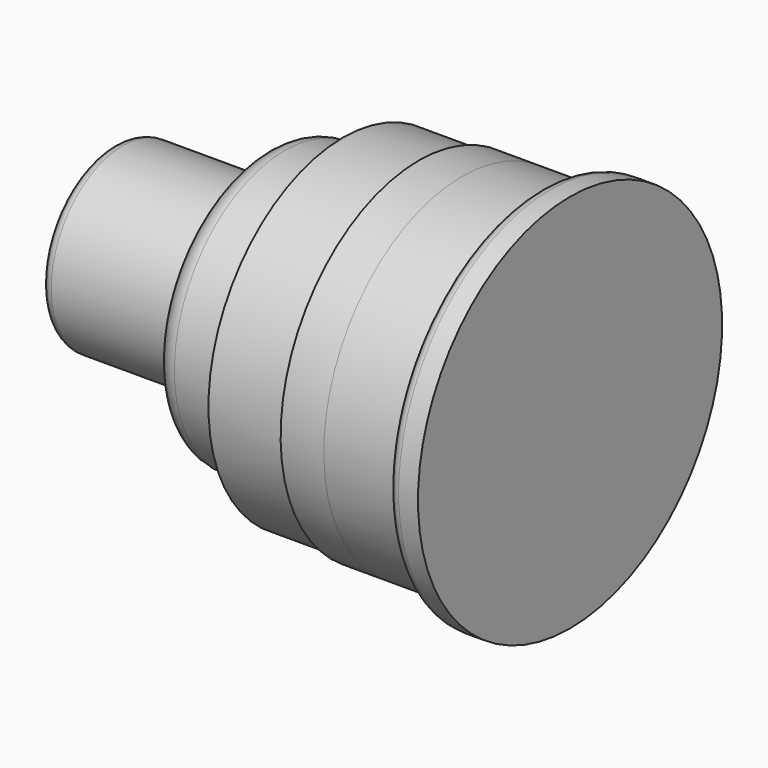
from build123d import *

# Parameters (mm, degrees)
F0_W = 6.4
F0_H = 1.1


with BuildPart() as f1:
    # F0 (on Front) → F1 (revolve)
    with BuildSketch(Plane.XZ):
        with BuildLine():
            Line((-7.2, 3), (-7.2, 4.15))
            Line((-7.2, 4.15), (-13.7, 4.15))
            ThreePointArc((-13.7, 4.15), (-14.053553, 4.003553), (-14.2, 3.65))
            Line((-14.2, 3.65), (-14.2, 3))
            Line((-14.2, 3), (-13.6, 3))
            Line((-13.6, 3), (-7.2, 3))
        make_face()
    revolve(axis=Axis((-1.512052, 0, 0), (1, 0, 0)))


with BuildPart() as f2:
    # F0 (on Front) → F2 (revolve)
    with BuildSketch(Plane.XZ):
        with BuildLine():
            Line((-3.5, 0), (-3.5, 6.4))
            Line((-3.5, 6.4), (-6.2, 6.4))
            ThreePointArc((-6.2, 6.4), (-6.907107, 6.107107), (-7.2, 5.4))
            Line((-7.2, 5.4), (-7.2, 4.15))
            Line((-7.2, 4.15), (-7.2, 3))
            Line((-7.2, 3), (-7.2, 1.9))
            Line((-7.2, 1.9), (-7.2, 0))
            Line((-7.2, 0), (-3.5, 0))
        make_face()
    revolve(axis=Axis((-5.35, 0, 0), (1, 0, 0)))


with BuildPart() as f3:
    # F0 (on Front) → F3 (revolve)
    with BuildSketch(Plane.XZ):
        Polygon((0, 0), (0, 7.8), (-3.5, 7.8), (-3.5, 6.4), (-3.5, 0), align=None)
    revolve(axis=Axis((-1.75, 0, 0), (1, 0, 0)))


with BuildPart() as f4:
    # F0 (on Front) → F4 (revolve)
    with BuildSketch(Plane.XZ):
        Polygon((0, 8), (0, 7.8), (0, 0), (2, 0), (2, 8), align=None)
    revolve(axis=Axis((4.5, 0, 0), (-1, 0, 0)))


with BuildPart() as f5:
    # F0 (on Front) → F5 (revolve)
    with BuildSketch(Plane.XZ):
        with Locations((-10.4, 2.45)):
            Rectangle(F0_W, F0_H)
    revolve(axis=Axis((-1.512052, 0, 0), (1, 0, 0)))


with BuildPart() as f6:
    # F0 (on Front) → F6 (revolve)
    with BuildSketch(Plane.XZ):
        with BuildLine():
            Line((2, 8), (2, 0))
            Line((2, 0), (7, 0))
            Line((7, 0), (7, 8.8))
            Line((7, 8.8), (6.1, 8.8))
            ThreePointArc((6.1, 8.8), (5.746447, 8.653553), (5.6, 8.3))
            Line((5.6, 8.3), (5.6, 8))
            Line((5.6, 8), (2, 8))
        make_face()
    revolve(axis=Axis((-1.512052, 0, 0), (1, 0, 0)))


solid = Compound([f1.part, f2.part, f3.part, f4.part, f5.part, f6.part])
